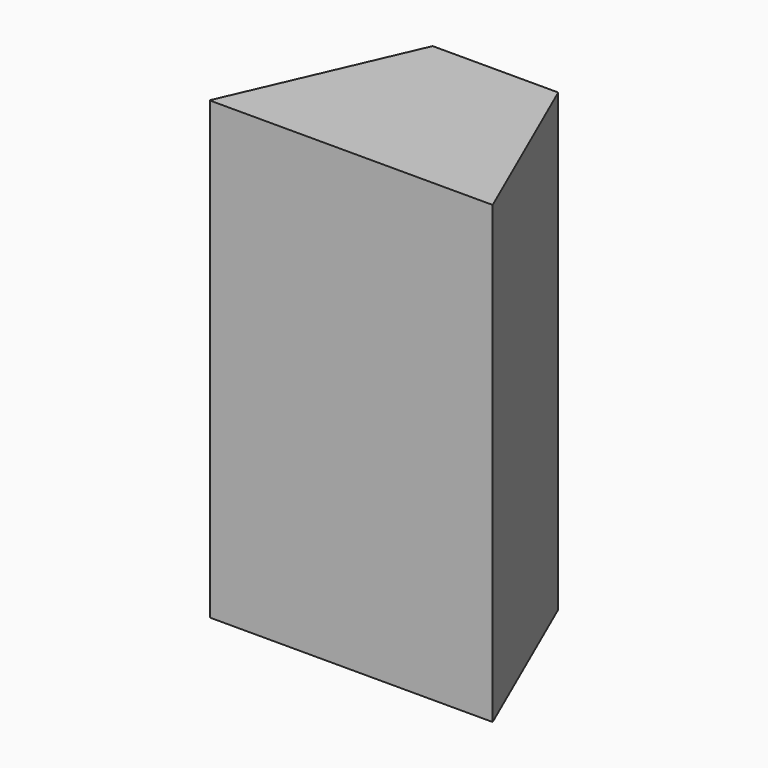
from build123d import *

# Parameters (mm, degrees)
BOX036_W           = 3.6
BOX036_H           = 2.3
BOX036_DEPTH       = 5.8
CHAMFER031_1_SIZE2 = 1
CHAMFER031_1_SIZE  = 2.29
CHAMFER031_2_SIZE2 = 1
CHAMFER031_2_SIZE  = 2.29


with BuildPart() as part:
    # Box036 → Box036 (new body)
    with BuildSketch(Plane(origin=(53.2, 17.7, 24.2), x_dir=(1, 0, 0), z_dir=(0, 0, 1))):
        with Locations((1.8, 1.15)):
            Rectangle(BOX036_W, BOX036_H)
    extrude(amount=BOX036_DEPTH)

    # Chamfer031 1
    chamfer031_1_edges = [part.edges().sort_by_distance(p)[0] for p in [
        (56.8, 20, 27.1),
    ]]
    chamfer031_1_side = part.faces().sort_by_distance((56.8, 18.85, 27.1))[0]
    chamfer(chamfer031_1_edges, length=CHAMFER031_1_SIZE, length2=CHAMFER031_1_SIZE2, reference=chamfer031_1_side)

    # Chamfer031 2
    chamfer031_2_edges = [part.edges().sort_by_distance(p)[0] for p in [
        (53.2, 20, 27.1),
    ]]
    chamfer031_2_side = part.faces().sort_by_distance((53.2, 18.85, 27.1))[0]
    chamfer(chamfer031_2_edges, length=CHAMFER031_2_SIZE, length2=CHAMFER031_2_SIZE2, reference=chamfer031_2_side)


with BuildPart() as part_1:
    # Chamfer031 placement: moved
    add(part.part.moved(Location((40, 0, 0))))


solid = part_1.part
